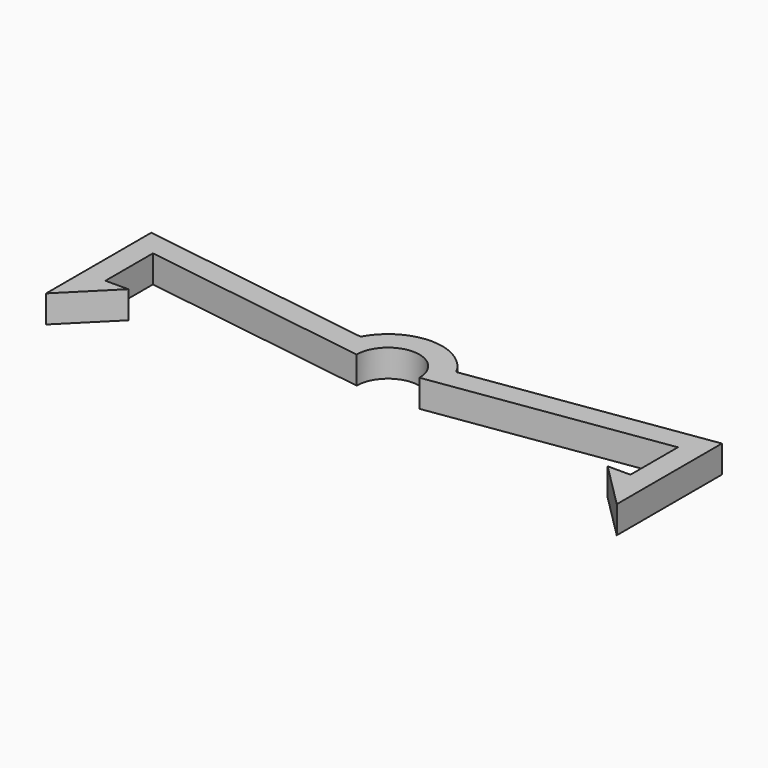
from build123d import *

# Parameters (mm, degrees)
F1_DEPTH = 1.2


with BuildPart() as f1:
    # F0 (on Top) → F1 (new body, symmetric)
    with BuildSketch(Plane.XY):
        with BuildLine():
            Line((25, -4), (25, 7.518125))
            Line((25, 7.518125), (4.191156, 4.435333))
            ThreePointArc((4.191156, 4.435333), (0, 6.95), (-4.191156, 4.435333))
            Line((-4.191156, 4.435333), (-25, 7.518125))
            Line((-25, 7.518125), (-25, -4))
            Line((-25, -4), (-21, 0))
            Line((-21, 0), (-23, 0))
            Line((-23, 0), (-23, 5.2))
            Line((-23, 5.2), (-2.75, 2.2))
            ThreePointArc((-2.75, 2.2), (0, 4.95), (2.75, 2.2))
            Line((2.75, 2.2), (23, 5.2))
            Line((23, 5.2), (23, 0))
            Line((23, 0), (21, 0))
            Line((21, 0), (25, -4))
        make_face()
    extrude(amount=F1_DEPTH, both=True)


solid = f1.part
